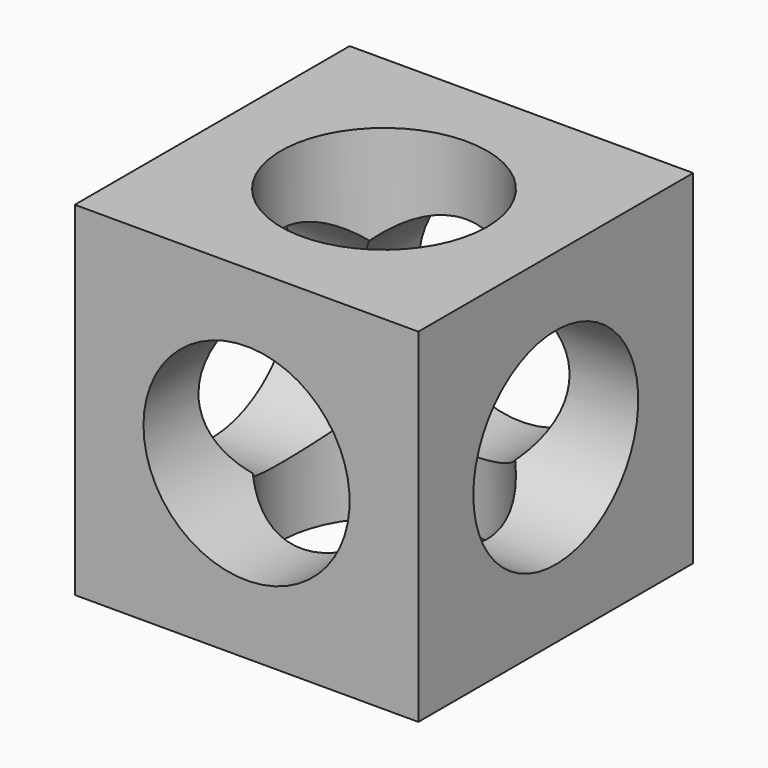
from build123d import *

# Parameters (mm, degrees)
F0_W     = 127
F0_H     = 127
F1_DEPTH = 127
F2_R     = 38.1
F3_DEPTH = 127.001
F4_R     = 38.1
F5_DEPTH = 127.001
F6_R     = 38.1
F7_DEPTH = 127.001


with BuildPart() as f1:
    # F0 (on Front) → F1 (new body)
    with BuildSketch(Plane.XZ):
        with Locations((7.896701, 2.958107)):
            Rectangle(F0_W, F0_H)
    extrude(amount=F1_DEPTH)

    # F2 (on face) → F3 (cut, through all)
    with BuildSketch(Plane(origin=(-55.603299, 0, 0), x_dir=(0, -1, 0), z_dir=(-1, 0, 0))):
        with Locations((63.5, 2.958107)):
            Circle(F2_R)
    extrude(amount=-F3_DEPTH, mode=Mode.SUBTRACT)

    # F4 (on face) → F5 (cut, through all)
    with BuildSketch(Plane(origin=(0, 0, 0), x_dir=(-1, 0, 0), z_dir=(0, 1, 0))):
        with Locations((-7.896701, 2.958107)):
            Circle(F4_R)
    extrude(amount=-F5_DEPTH, mode=Mode.SUBTRACT)

    # F6 (on face) → F7 (cut, through all)
    with BuildSketch(Plane.XY.offset(66.458107)):
        with Locations((7.896701, -63.5)):
            Circle(F6_R)
    extrude(amount=-F7_DEPTH, mode=Mode.SUBTRACT)


solid = f1.part
